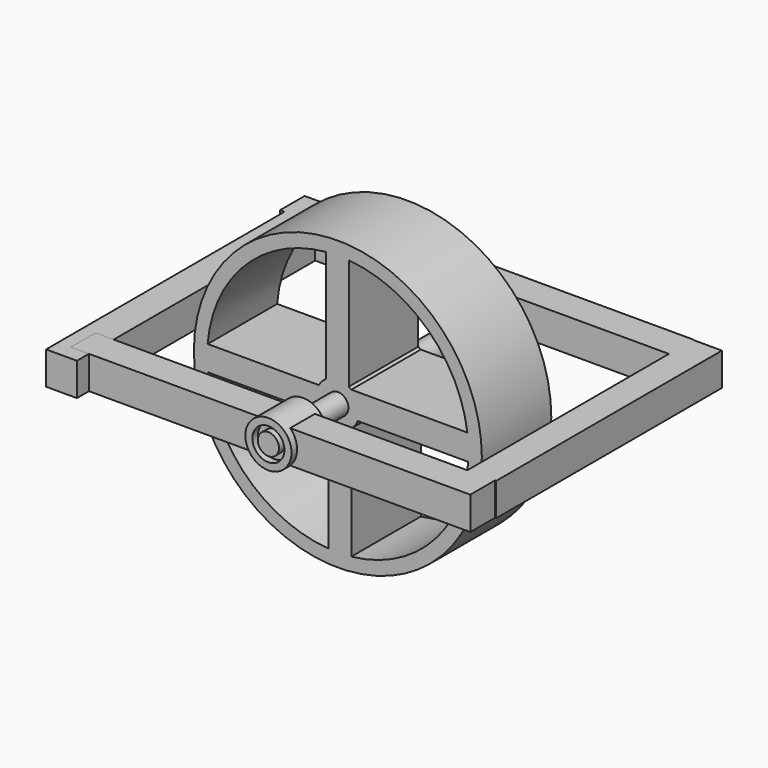
from build123d import *

# Parameters (mm, degrees)
F0_R      = 42.120196
F1_DEPTH  = 25.4
F2_R      = 3.1057
F3_DEPTH  = 25.4
F4_R      = 3.525141
F5_DEPTH  = 25.4
F6_R      = 6.747617
F6_R_2    = 4.679187
F7_DEPTH  = 12.7
F8_W      = 9.023681
F8_H      = 9.625264
F9_DEPTH  = 57.404
F10_W     = 8.422106
F10_H     = 9.625264
F11_DEPTH = 82.55
F12_W     = 9.023688
F12_H     = 9.625264
F13_DEPTH = 113.792
F14_W     = 9.023682
F14_H     = 9.625264
F15_DEPTH = 87.122
F16_DEPTH = 59.436


with BuildPart() as f1:
    # F0 (on Front) → F1 (new body)
    with BuildSketch(Plane.XZ):
        Circle(F0_R)
        with BuildLine():
            Line((-37.982044, -4.180653), (-4.779607, -4.180653))
            ThreePointArc((-4.779607, -4.180653), (-3.834717, -5.061368), (-2.731153, -5.732653))
            Line((-2.731153, -5.732653), (-2.731153, -38.113703))
            ThreePointArc((-2.731153, -38.113703), (-26.500077, -27.529248), (-37.982044, -4.180653))
        make_face(mode=Mode.SUBTRACT)
        with BuildLine():
            Line((3.934123, -38.008371), (3.934123, -4.984494))
            ThreePointArc((3.934123, -4.984494), (5.049451, -3.850395), (5.847939, -2.474694))
            Line((5.847939, -2.474694), (38.131214, -2.474694))
            ThreePointArc((38.131214, -2.474694), (27.532411, -26.49679), (3.934123, -38.008371))
        make_face(mode=Mode.SUBTRACT)
        with BuildLine():
            ThreePointArc((-38.087083, 3.080209), (-27.177, 26.861203), (-3.525141, 38.048481))
            Line((-3.525141, 38.048481), (-3.525141, 5.281655))
            ThreePointArc((-3.525141, 5.281655), (-4.670583, 4.302111), (-5.552911, 3.080209))
            Line((-5.552911, 3.080209), (-38.087083, 3.080209))
        make_face(mode=Mode.SUBTRACT)
        with BuildLine():
            Line((37.884936, 4.984494), (3.934123, 4.984494))
            ThreePointArc((3.934123, 4.984494), (3.571703, 5.25028), (3.191392, 5.489765))
            Line((3.191392, 5.489765), (3.191392, 38.077928))
            ThreePointArc((3.191392, 38.077928), (26.37442, 27.649657), (37.884936, 4.984494))
        make_face(mode=Mode.SUBTRACT)
    extrude(amount=F1_DEPTH)

    # F2 (on face) → F3 (join)
    with BuildSketch(Plane.XZ.offset(25.4)):
        Circle(F2_R)
    extrude(amount=F3_DEPTH)

    # F4 (on face) → F5 (join)
    with BuildSketch(Plane(origin=(0, 0, 0), x_dir=(-1, 0, 0), z_dir=(0, 1, 0))):
        Circle(F4_R)
    extrude(amount=F5_DEPTH)


with BuildPart() as f7:
    # F6 (on face) → F7 (new body)
    with BuildSketch(Plane.XZ.offset(50.8)):
        Circle(F6_R)
        Circle(F6_R_2, mode=Mode.SUBTRACT)
    extrude(amount=-F7_DEPTH)


with BuildPart() as f9:
    # F8 (on Right) → F9 (new body)
    with BuildSketch(Plane.YZ):
        with Locations((-44.216051, 0)):
            Rectangle(F8_W, F8_H)
    extrude(amount=F9_DEPTH)

    # F10 (on face) → F11 (join)
    with BuildSketch(Plane(origin=(0, -39.704211, 0), x_dir=(-1, 0, 0), z_dir=(0, 1, 0))):
        with Locations((-53.540528, 0)):
            Rectangle(F10_W, F10_H)
    extrude(amount=F11_DEPTH)

    # F12 (on face) → F13 (join)
    with BuildSketch(Plane(origin=(49.329475, 0, 0), x_dir=(0, -1, 0), z_dir=(-1, 0, 0))):
        with Locations((-38.501054, 0)):
            Rectangle(F12_W, F12_H)
    extrude(amount=F13_DEPTH)

    # F14 (on face) → F15 (join)
    with BuildSketch(Plane.XZ.offset(-33.98921)):
        with Locations((-58.653947, 0)):
            Rectangle(F14_W, F14_H)
    extrude(amount=F15_DEPTH)


with BuildPart() as f16:
    # F8 (on Right) → F16 (new body)
    with BuildSketch(Plane.YZ):
        with Locations((-44.216051, 0)):
            Rectangle(F8_W, F8_H)
    extrude(amount=-F16_DEPTH)


solid = Compound([f1.part, f7.part, f9.part, f16.part])
